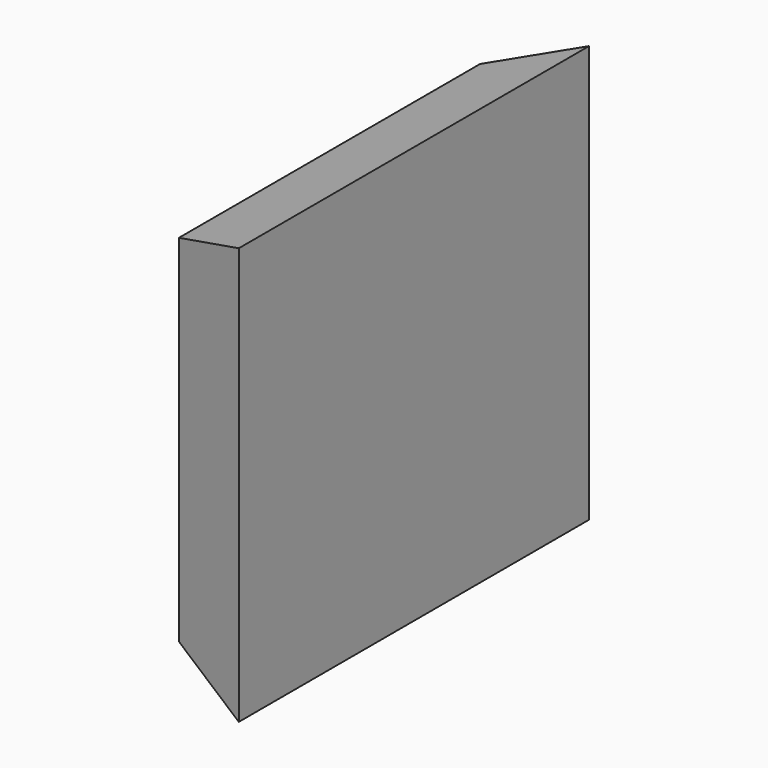
from build123d import *

# Parameters (mm, degrees)
F0_W     = 113.1941787899
F0_H     = 106.9221459329
F1_DEPTH = 25.4
F1_TAPER = -20


with BuildPart() as f1:
    # F0 (on Right) → F1 (new body)
    with BuildSketch(Plane.YZ):
        with Locations((12.7116460353, -7.0547778159)):
            Rectangle(F0_W, F0_H)
    extrude(amount=F1_DEPTH, taper=F1_TAPER)


solid = f1.part
